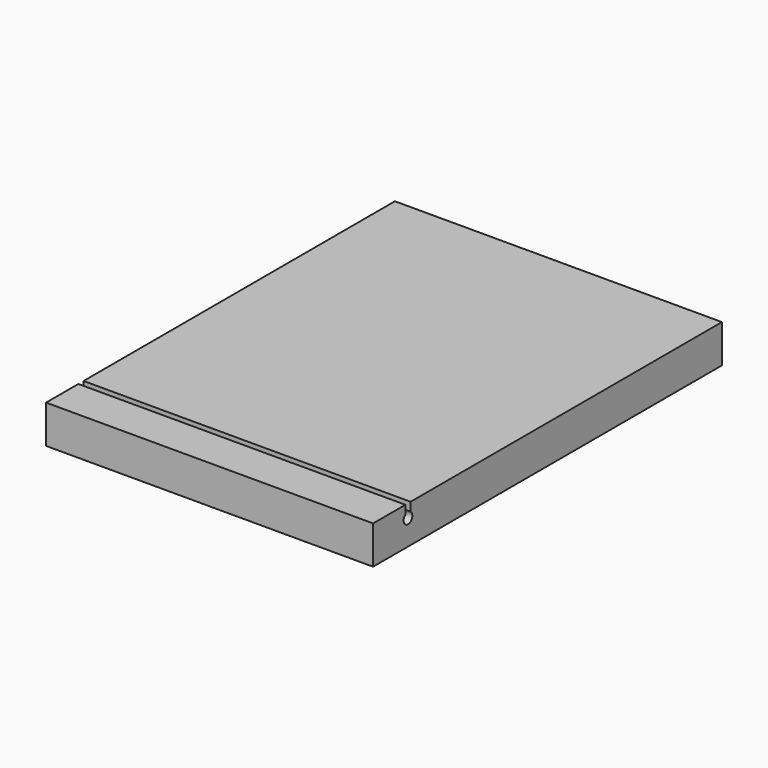
from build123d import *

# Parameters (mm, degrees)
F1_DEPTH = 300


with BuildPart() as f1:
    # F0 (on Right) → F1 (new body)
    with BuildSketch(Plane.YZ):
        with BuildLine():
            Line((0, 35), (0, 0))
            Line((0, 0), (400, 0))
            Line((400, 0), (400, 35))
            Line((400, 35), (43, 35))
            Line((43, 35), (43, 27))
            ThreePointArc((43, 27), (40, 18), (37, 27))
            Line((37, 27), (37, 35))
            Line((37, 35), (0, 35))
        make_face()
    extrude(amount=F1_DEPTH)


solid = f1.part
